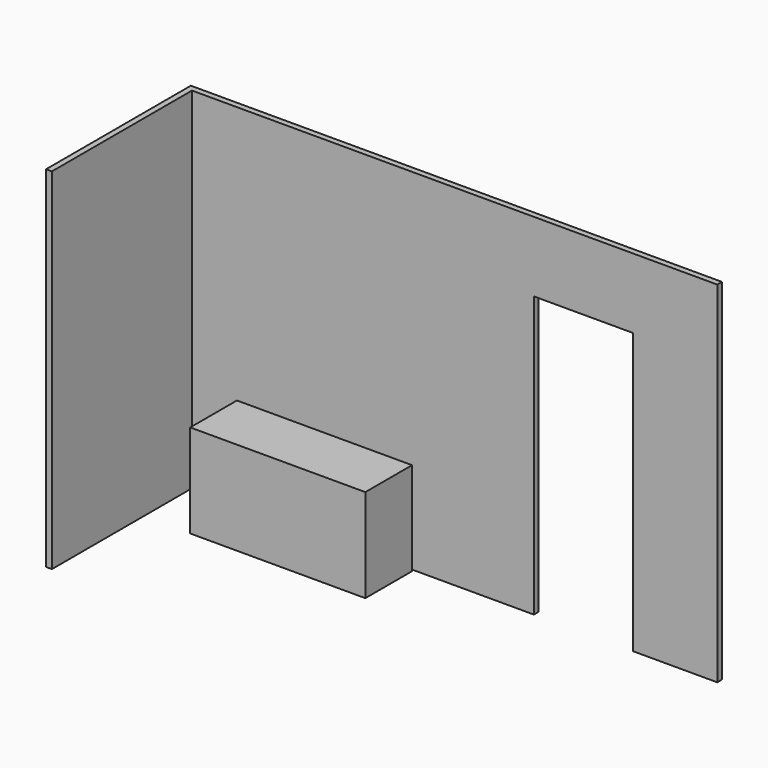
from build123d import *

# Parameters (mm, degrees)
F1_DEPTH = 3048
F2_W     = 1524
F2_H     = 508
F3_DEPTH = 812.8
F4_W     = 863.6
F4_H     = 2438.4
F5_DEPTH = 50.8


with BuildPart() as f1:
    # F0 (on Top) → F1 (new body)
    with BuildSketch(Plane.XY):
        Polygon((-50.8, 0), (0, 0), (0, 1524), (4572, 1524), (4572, 1574.8), (-50.8, 1574.8), align=None)
    extrude(amount=F1_DEPTH)

    # F4 (on face) → F5 (cut)
    with BuildSketch(Plane.XZ.offset(-1524)):
        with Locations((3407.89067, 1219.2)):
            Rectangle(F4_W, F4_H)
    extrude(amount=-F5_DEPTH, mode=Mode.SUBTRACT)


with BuildPart() as f3:
    # F2 (on Top) → F3 (new body)
    with BuildSketch(Plane.XY):
        with Locations((1168.4, 1250.95)):
            Rectangle(F2_W, F2_H)
    extrude(amount=F3_DEPTH)


solid = Compound([f1.part, f3.part])
